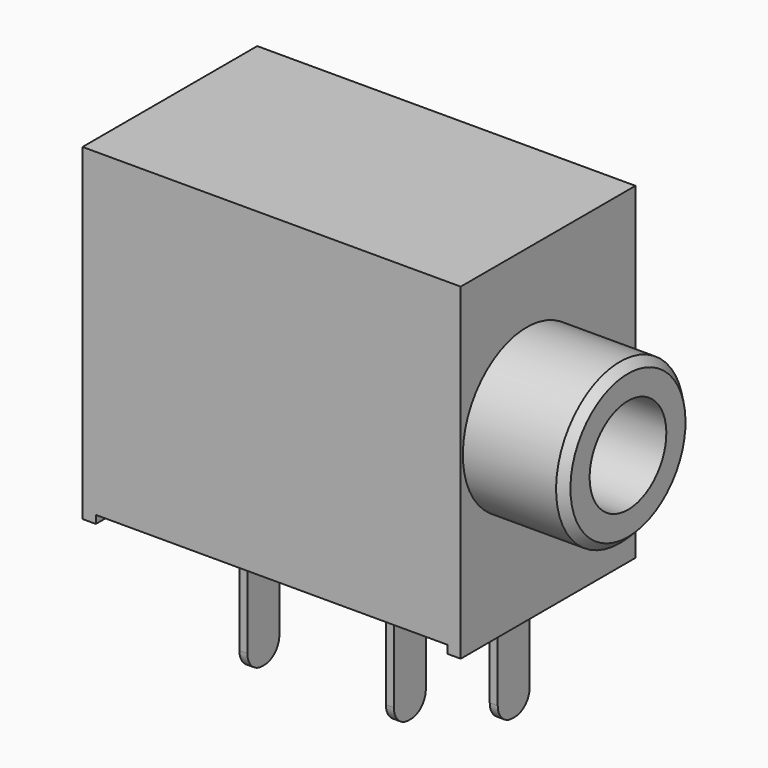
from build123d import *

# Parameters (mm, degrees)
BOX002_W                = 0.3
BOX002_H                = 1.5
BOX002_DEPTH            = 5
FILLET_R                = 0.7
FILLET001_R             = 0.7
FILLET002_R             = 0.7
BOX001_W                = 13.2
BOX001_H                = 8.2
BOX001_DEPTH            = 12.3
CYLINDER001_R           = 1.8
CYLINDER001_DEPTH       = 14
CYLINDER001_PITCH_ANGLE = 90
CYLINDER_R              = 3
CYLINDER_DEPTH          = 4
CYLINDER_PITCH_ANGLE    = 90
BOX_W                   = 14.2
BOX_H                   = 8.2
BOX_DEPTH               = 12.3
CHAMFER_SIZE            = 0.3


with BuildPart() as cube001:
    # Box002 → Box002 (new body)
    with BuildSketch(Plane(origin=(12.65, 3.3, -4), x_dir=(1, 0, 0), z_dir=(0, 0, 1))):
        with Locations((0.15, 0.75)):
            Rectangle(BOX002_W, BOX002_H)
    extrude(amount=BOX002_DEPTH)


with BuildPart() as terminal1:
    # Fillet base: copy of Cube001
    add(cube001.part)

    # Fillet
    fillet_edges = [terminal1.edges().sort_by_distance(p)[0] for p in [
        (12.8, 3.3, -4),
        (12.8, 4.8, -4),
    ]]
    fillet(fillet_edges, radius=FILLET_R)


with BuildPart() as terminal2:
    # Fillet001 base: copy of Cube001
    add(cube001.part)

    # Fillet001
    fillet001_edges = [terminal2.edges().sort_by_distance(p)[0] for p in [
        (12.8, 3.3, -4),
        (12.8, 4.8, -4),
    ]]
    fillet(fillet001_edges, radius=FILLET001_R)


with BuildPart() as terminal2_1:
    # Fillet001 placement: moved
    add(terminal2.part.moved(Location((-2.3, -2, 0))))


with BuildPart() as terminal3:
    # Fillet002 base: copy of Cube001
    add(cube001.part)

    # Fillet002
    fillet002_edges = [terminal3.edges().sort_by_distance(p)[0] for p in [
        (12.8, 3.3, -4),
        (12.8, 4.8, -4),
    ]]
    fillet(fillet002_edges, radius=FILLET002_R)


with BuildPart() as terminal3_1:
    # Fillet002 placement: moved
    add(terminal3.part.moved(Location((-7.8, -2, 0))))


with BuildPart() as cube:
    # Box001 → Box001 (new body)
    with BuildSketch(Plane(origin=(0.5, 0, -12), x_dir=(1, 0, 0), z_dir=(0, 0, 1))):
        with Locations((6.6, 4.1)):
            Rectangle(BOX001_W, BOX001_H)
    extrude(amount=BOX001_DEPTH)


with BuildPart() as fusion:
    # Cylinder001 → Cylinder001 (new body)
    with BuildSketch(Plane.XY):
        Circle(CYLINDER001_R)
    extrude(amount=CYLINDER001_DEPTH)


with BuildPart() as fusion_1:
    # Cylinder001 pitch: moved
    add(fusion.part.rotate(Axis((0, 0, 0), (0, 1, 0)), CYLINDER001_PITCH_ANGLE))


with BuildPart() as fusion_2:
    # Cylinder001 placement: moved
    add(fusion_1.part.moved(Location((4, 3.1, 6.7))))

    # Fusion: union Cube-
    add(cube.part)


with BuildPart() as cylinder:
    # Cylinder → Cylinder (new body)
    with BuildSketch(Plane.XY):
        Circle(CYLINDER_R)
    extrude(amount=CYLINDER_DEPTH)


with BuildPart() as cylinder_1:
    # Cylinder pitch: moved
    add(cylinder.part.rotate(Axis((0, 0, 0), (0, 1, 0)), CYLINDER_PITCH_ANGLE))


with BuildPart() as cylinder_2:
    # Cylinder placement: moved
    add(cylinder_1.part.moved(Location((14, 3.1, 6.7))))


with BuildPart() as chamfer_body:
    # Box → Box (new body)
    with BuildSketch(Plane.XY):
        with Locations((7.1, 4.1)):
            Rectangle(BOX_W, BOX_H)
    extrude(amount=BOX_DEPTH)

    # Fusion001: union Cylinder
    add(cylinder_2.part)

    # Cut: cut Fusion-
    add(fusion_2.part, mode=Mode.SUBTRACT)

    # Chamfer
    chamfer_edges = [chamfer_body.edges().sort_by_distance(p)[0] for p in [
        (18, 3.1, 9.7),
    ]]
    chamfer(chamfer_edges, length=CHAMFER_SIZE)


solid = Compound([terminal1.part, terminal2_1.part, terminal3_1.part, chamfer_body.part])
